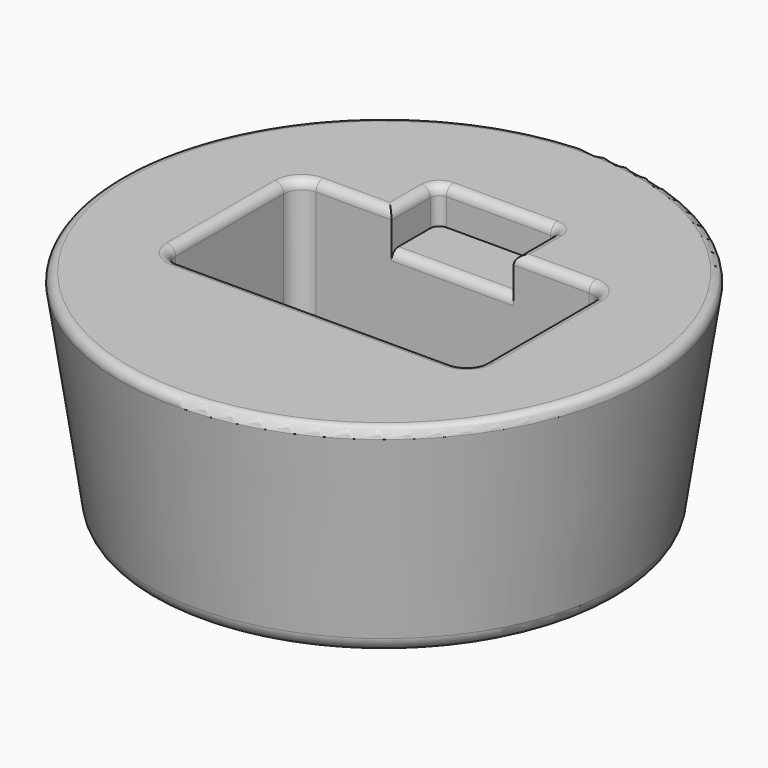
from build123d import *

# Parameters (mm, degrees)
F0_R     = 41.275
F2_R     = 53.594
F5_R     = 3.175
F7_DEPTH = 44.958
F8_DEPTH = 31.75
F9_DEPTH = 6.35
F10_R    = 1.5875


with BuildPart() as f3:
    # F0 (on Top) → F3 section 0
    with BuildSketch(Plane.XY):
        Circle(F0_R)
    # F2 (on offset) → F3 section 1
    with BuildSketch(Plane.XY.offset(83.058)):
        Circle(F2_R)
    loft()

    # F5
    f5_edges = [f3.edges().sort_by_distance(p)[0] for p in [
        (-41.275, 0, 0),
    ]]
    fillet(f5_edges, radius=F5_R)

    # F7 (cut, through all): a face of the model
    f7_faces = [f3.faces().sort_by_distance(p)[0] for p in [
        (0, 0, 83.058),
    ]]
    extrude(f7_faces, amount=-F7_DEPTH, mode=Mode.SUBTRACT)

    # F6 (on offset) → F8 (cut)
    with BuildSketch(Plane.XY.offset(38.1)):
        with BuildLine():
            Line((-24.13, -15.113), (0, -15.113))
            Line((0, -15.113), (0, 15.113))
            Line((0, 15.113), (-10.795, 15.113))
            Line((-10.795, 15.113), (-24.13, 15.113))
            ThreePointArc((-24.13, 15.113), (-26.3750640303, 14.1830640303), (-27.305, 11.938))
            Line((-27.305, 11.938), (-27.305, -11.938))
            ThreePointArc((-27.305, -11.938), (-26.3750640303, -14.1830640303), (-24.13, -15.113))
        make_face()
        with BuildLine():
            Line((0, -15.113), (24.13, -15.113))
            ThreePointArc((24.13, -15.113), (26.3750640303, -14.1830640303), (27.305, -11.938))
            Line((27.305, -11.938), (27.305, 11.938))
            ThreePointArc((27.305, 11.938), (26.3750640303, 14.1830640303), (24.13, 15.113))
            Line((24.13, 15.113), (10.795, 15.113))
            Line((10.795, 15.113), (0, 15.113))
            Line((0, 15.113), (0, -15.113))
        make_face()
    extrude(amount=-F8_DEPTH, mode=Mode.SUBTRACT)

    # F6 (on offset) → F9 (cut)
    with BuildSketch(Plane.XY.offset(38.1)):
        with BuildLine():
            Line((0, -15.113), (24.13, -15.113))
            ThreePointArc((24.13, -15.113), (26.3750640303, -14.1830640303), (27.305, -11.938))
            Line((27.305, -11.938), (27.305, 11.938))
            ThreePointArc((27.305, 11.938), (26.3750640303, 14.1830640303), (24.13, 15.113))
            Line((24.13, 15.113), (10.795, 15.113))
            Line((10.795, 15.113), (0, 15.113))
            Line((0, 15.113), (0, -15.113))
        make_face()
        with BuildLine():
            Line((-24.13, -15.113), (0, -15.113))
            Line((0, -15.113), (0, 15.113))
            Line((0, 15.113), (-10.795, 15.113))
            Line((-10.795, 15.113), (-24.13, 15.113))
            ThreePointArc((-24.13, 15.113), (-26.3750640303, 14.1830640303), (-27.305, 11.938))
            Line((-27.305, 11.938), (-27.305, -11.938))
            ThreePointArc((-27.305, -11.938), (-26.3750640303, -14.1830640303), (-24.13, -15.113))
        make_face()
        with BuildLine():
            Line((-10.795, 15.113), (0, 15.113))
            Line((0, 15.113), (10.795, 15.113))
            Line((10.795, 15.113), (10.795, 23.6855))
            ThreePointArc((10.795, 23.6855), (10.3300320151, 24.8080320151), (9.2075, 25.273))
            Line((9.2075, 25.273), (-9.2075, 25.273))
            ThreePointArc((-9.2075, 25.273), (-10.3300320151, 24.8080320151), (-10.795, 23.6855))
            Line((-10.795, 23.6855), (-10.795, 15.113))
        make_face()
    extrude(amount=-F9_DEPTH, mode=Mode.SUBTRACT)

    # F10
    f10_edges = [f3.edges().sort_by_distance(p)[0] for p in [
        (0, 15.113, 31.75),
        (0, -15.113, 6.35),
        (26.375064, -14.183064, 6.35),
        (27.305, 0, 6.35),
        (26.375064, 14.183064, 6.35),
        (0, 15.113, 6.35),
        (-26.375064, 14.183064, 6.35),
        (-27.305, 0, 6.35),
        (-26.375064, -14.183064, 6.35),
        (-46.925917, 0, 38.1),
        (0, -15.113, 38.1),
        (26.375064, -14.183064, 38.1),
        (27.305, 0, 38.1),
        (26.375064, 14.183064, 38.1),
        (17.4625, 15.113, 38.1),
        (10.795, 19.39925, 38.1),
        (10.330032, 24.808032, 38.1),
        (0, 25.273, 38.1),
        (-10.330032, 24.808032, 38.1),
        (-10.795, 19.39925, 38.1),
        (-17.4625, 15.113, 38.1),
        (-26.375064, 14.183064, 38.1),
        (-27.305, 0, 38.1),
        (-26.375064, -14.183064, 38.1),
    ]]
    fillet(f10_edges, radius=F10_R)


solid = f3.part
